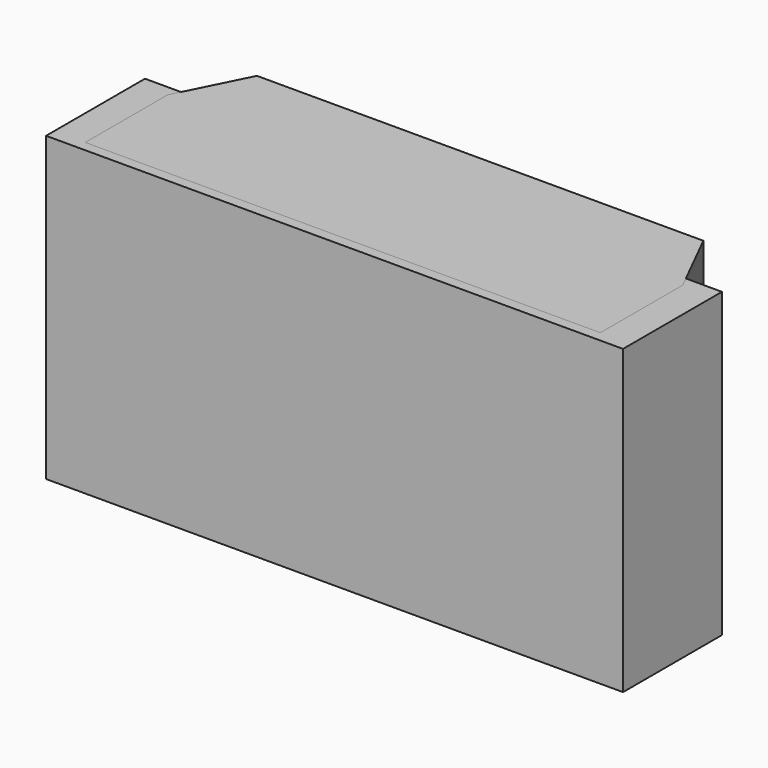
from build123d import *

# Parameters (mm, degrees)
F0_W     = 168
F0_H     = 36
F1_DEPTH = 88
F3_DEPTH = 88


with BuildPart() as f1:
    # F0 (on Top) → F1 (new body)
    with BuildSketch(Plane.XY):
        Rectangle(F0_W, F0_H)
    extrude(amount=F1_DEPTH)


with BuildPart() as f3:
    # F2 (on Top) → F3 (new body)
    with BuildSketch(Plane.XY):
        Polygon((-75, -15), (75, -15), (75, 15), (65, 35), (-65, 35), (-75, 15), align=None)
    extrude(amount=F3_DEPTH)


solid = Compound([f1.part, f3.part])
